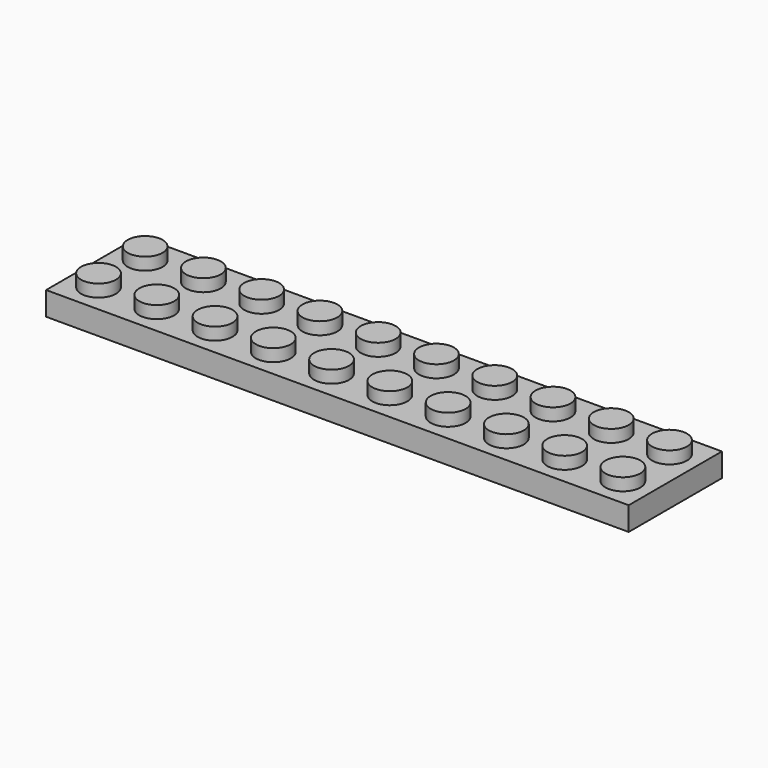
from build123d import *

# Parameters (mm, degrees)
F1_DEPTH  = 8
F3_W      = 8
F3_H      = 8
F3_R      = 2.4
F4_DEPTH  = 1.7
F5_R      = 2.4
F6_DEPTH  = 1.7
F14_W     = 25.3485813737
F14_H     = 15.2238979936
F15_DEPTH = 48.006


with BuildPart() as f1:
    # F0 (on Front) → F1 (new body)
    with BuildSketch(Plane.XZ):
        Polygon((-2.4, 3.2333333013), (-4, 3.2333333013), (-4, 0), (4, 0), (4, 3.2333333013), (2.4, 3.2333333013), (2.4, 4.9333333013), (-2.4, 4.9333333013), align=None)
    extrude(amount=F1_DEPTH)

    # F3 (on plane+point) → F4 (cut, through all)
    with BuildSketch(Plane.XY.offset(4.9333333013)):
        with Locations((0, -4)):
            Rectangle(F3_W, F3_H)
        with Locations((0, -4)):
            Circle(F3_R, mode=Mode.SUBTRACT)
    extrude(amount=-F4_DEPTH, mode=Mode.SUBTRACT)

    # F5 (on Top) → F6 (cut)
    with BuildSketch(Plane.XY):
        with Locations((0, -4)):
            Circle(F5_R)
    extrude(amount=F6_DEPTH, mode=Mode.SUBTRACT)

    # F8: F1 across plane


with BuildPart() as f1_1:
    add(f1.part)
    add(f1.part.mirror(Plane.YZ.offset(4)))

    # F9: F1 across plane


with BuildPart() as f1_2:
    add(f1_1.part)
    add(f1_1.part.mirror(Plane.XZ))

    # F11: F1 across plane


with BuildPart() as f1_3:
    add(f1_2.part)
    add(f1_2.part.mirror(Plane.YZ.offset(12)))

    # F12: F1 across face


with BuildPart() as f1_4:
    add(f1_3.part)
    add(f1_3.part.mirror(Plane(origin=(28, 0, 1.6166666507), x_dir=(0, 1, 0), z_dir=(1, 0, 0))))

    # F13: F1 across face


with BuildPart() as f1_5:
    add(f1_4.part)
    add(f1_4.part.mirror(Plane(origin=(60, 0, 1.6166666507), x_dir=(0, 1, 0), z_dir=(1, 0, 0))))

    # F14 (on face) → F15 (cut)
    with BuildSketch(Plane.YZ.offset(124)):
        with Locations((4.5101642609, 0)):
            Rectangle(F14_W, F14_H)
    extrude(amount=-F15_DEPTH, mode=Mode.SUBTRACT)


solid = f1_5.part
